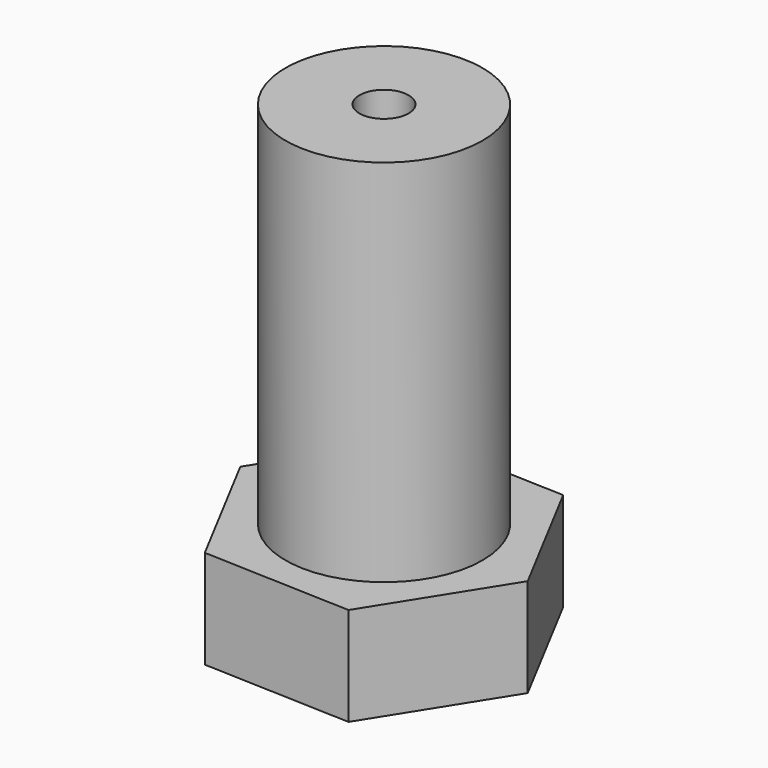
from build123d import *

# Parameters (mm, degrees)
F0_R      = 4
F1_DEPTH  = 15
F1_FACE_R = 4
F2_DEPTH  = 4
F3_R      = 1
F4_DEPTH  = 19.001


with BuildPart() as f1:
    # F0 (on Top) → F1 (new body)
    with BuildSketch(Plane.XY):
        Circle(F0_R)
    extrude(amount=F1_DEPTH)

    # F1_face (on face) + F0 (on Top) → F2 (join)
    with BuildSketch(Plane(origin=(0, 0, 0), x_dir=(1, 0, 0), z_dir=(0, 0, -1))):
        Circle(F1_FACE_R)
    with BuildSketch(Plane.XY):
        Polygon((6.0127749436, -0.2231464057), (3.1996379279, 5.0956426455), (-2.8131370157, 5.3187890512), (-6.0127749436, 0.2231464057), (-3.1996379279, -5.0956426455), (2.8131370157, -5.3187890512), align=None)
        Circle(F0_R, mode=Mode.SUBTRACT)
    extrude(amount=F2_DEPTH, dir=(0, 0, -1))

    # F3 (on face) → F4 (cut, through all)
    with BuildSketch(Plane.XY.offset(15)):
        Circle(F3_R)
    extrude(amount=-F4_DEPTH, mode=Mode.SUBTRACT)


solid = f1.part
